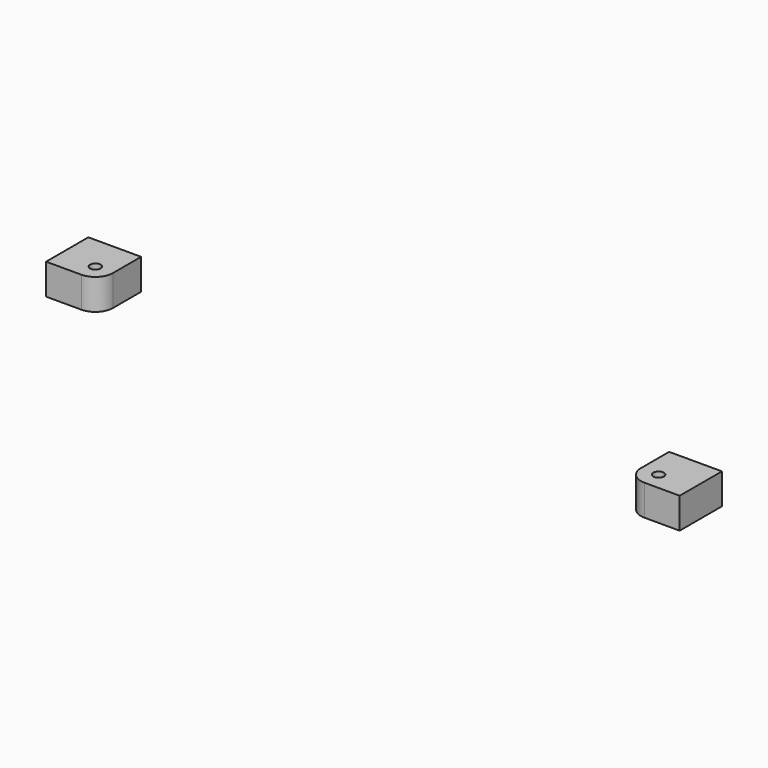
from build123d import *

# Parameters (mm, degrees)
CYLINDER_R     = 0.6
CYLINDER_DEPTH = 30
BOX002_W       = 6
BOX002_H       = 6
BOX002_DEPTH   = 3.5
FILLET001_R    = 2


with BuildPart() as cylinder:
    # Cylinder → Cylinder (new body)
    with BuildSketch(Plane(origin=(5, 5, -15), x_dir=(1, 0, 0), z_dir=(0, 0, 1))):
        Circle(CYLINDER_R)
    extrude(amount=CYLINDER_DEPTH)


with BuildPart() as cut001:
    # Box002 → Box002 (new body)
    with BuildSketch(Plane(origin=(1, 1, 2), x_dir=(1, 0, 0), z_dir=(0, 0, 1))):
        with Locations((3, 3)):
            Rectangle(BOX002_W, BOX002_H)
    extrude(amount=BOX002_DEPTH)

    # Fillet001
    fillet001_edges = [cut001.edges().sort_by_distance(p)[0] for p in [
        (7, 7, 3.75),
    ]]
    fillet(fillet001_edges, radius=FILLET001_R)

    # Cut001: cut Cylinder
    add(cylinder.part, mode=Mode.SUBTRACT)


with BuildPart() as compound:
    # Part__Mirroring: instance of Cut001
    add(cut001.part.mirror(Plane(origin=(0, 0, 0), x_dir=(0, -1, 0), z_dir=(1, 0, 0))))


with BuildPart() as compound_1:
    # Part__Mirroring placement: moved
    add(compound.part.moved(Location((74, 0, 0))))

    # Compound: union Cut001
    add(cut001.part)


with BuildPart() as part_mirroring001:
    # Part__Mirroring001: instance of Compound
    add(compound_1.part.mirror(Plane(origin=(0, 0, 0), x_dir=(1, 0, 0), z_dir=(0, 1, 0))))


with BuildPart() as part_mirroring001_1:
    # Part__Mirroring001 placement: moved
    add(part_mirroring001.part.moved(Location((0, 54, 0))))


solid = part_mirroring001_1.part
